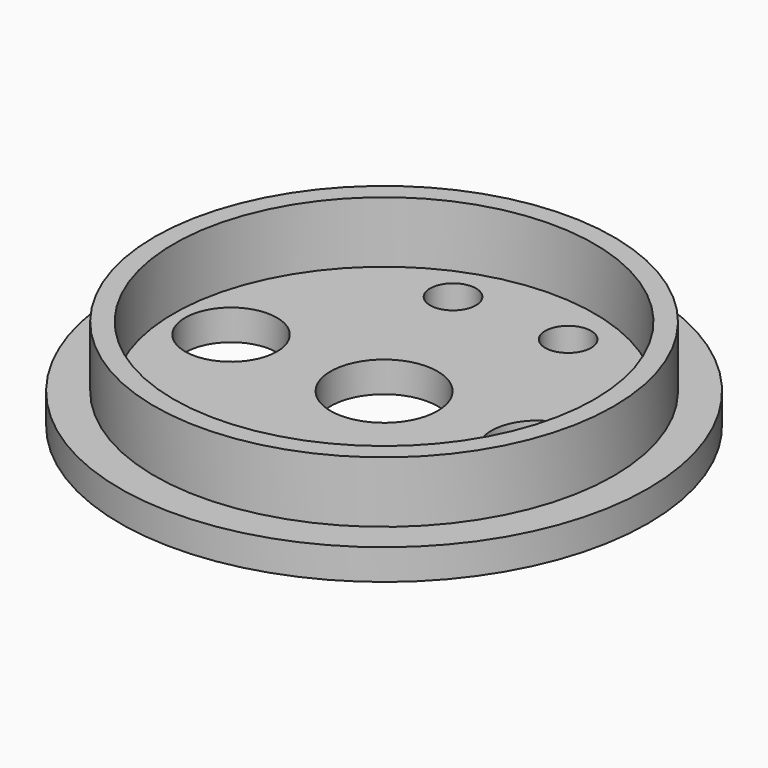
from build123d import *

# Parameters (mm, degrees)
SKETCH_R      = 17.25
SKETCH_R_2    = 3.5
SKETCH_R_3    = 3
PAD_DEPTH     = 2
SKETCH003_R   = 15
SKETCH003_R_2 = 13.75
PAD001_DEPTH  = 4
SKETCH005_R   = 1.5
POCKET_DEPTH  = 2.001


with BuildPart() as part:
    # Sketch → Pad (new body)
    with BuildSketch(Plane.XY):
        Circle(SKETCH_R)
        Circle(SKETCH_R_2, mode=Mode.SUBTRACT)
        with Locations((10, 0)):
            Circle(SKETCH_R_3, mode=Mode.SUBTRACT)
        with Locations((-10, 0)):
            Circle(SKETCH_R_3, mode=Mode.SUBTRACT)
    extrude(amount=PAD_DEPTH)

    # Sketch003 (on Face6 of Pad) → Pad001 (join)
    with BuildSketch(Plane.XY.offset(2)):
        Circle(SKETCH003_R)
        Circle(SKETCH003_R_2, mode=Mode.SUBTRACT)
    extrude(amount=PAD001_DEPTH)

    # Sketch005 (on Face6 of Pad) → Pocket (cut, through all)
    with BuildSketch(Plane.XY.offset(2)):
        with Locations((-3.762222, 10.336619)):
            Circle(SKETCH005_R)
        with Locations((3.762222, 10.336619)):
            Circle(SKETCH005_R)
        with Locations((-3.762222, -10.336619)):
            Circle(SKETCH005_R)
        with Locations((3.762222, -10.336619)):
            Circle(SKETCH005_R)
    extrude(amount=-POCKET_DEPTH, mode=Mode.SUBTRACT)


solid = part.part
